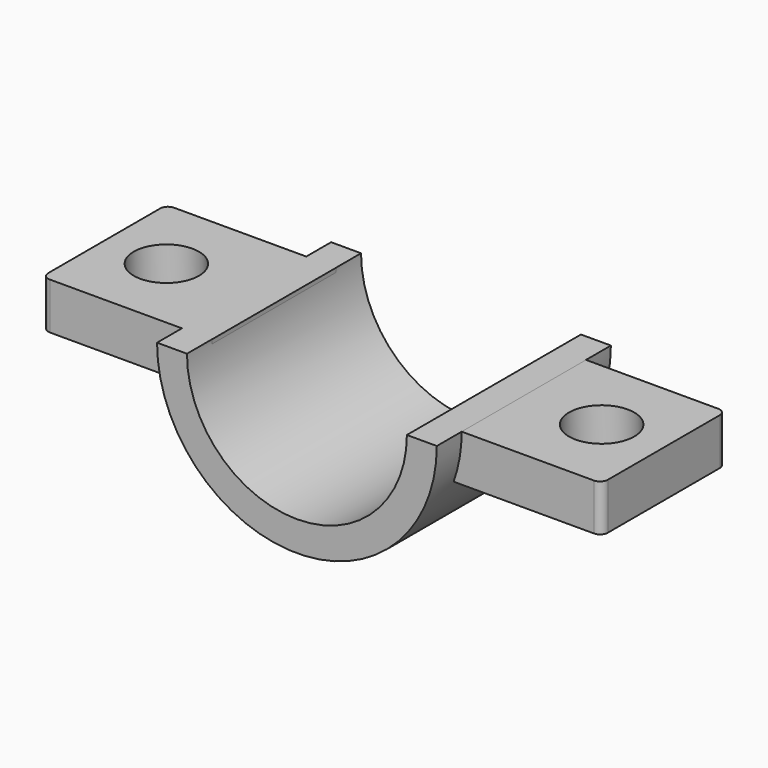
from build123d import *

# Parameters (mm, degrees)
PAD037_DEPTH      = 13
PAD037_DEPTH_BACK = 1
SKETCH058_W       = 1.93
SKETCH058_H       = 10
PAD038_DEPTH      = 3
SKETCH059_W       = 10
SKETCH059_H       = 3
PAD039_DEPTH      = 9
SKETCH060_W       = 10
SKETCH060_H       = 3
PAD040_DEPTH      = 9
SKETCH070_R       = 2.1
HOLE_DEPTH        = 3.001
FILLET014_R       = 0.5


with BuildPart() as part:
    # Sketch057 (on Face1 of CopyPad023) → Pad037 (new body, two sides)
    with BuildSketch(Plane(origin=(0, -35.363644, -2), x_dir=(1, 0, 0), z_dir=(0, -1, 0))) as pad037_sk:
        with BuildLine():
            ThreePointArc((-25.035308, -10.895555), (-17.960308, -17.970555), (-10.885308, -10.895554))
            Line((-10.885308, -10.895554), (-8.960308, -10.895554))
            ThreePointArc((-26.960308, -10.895555), (-17.960308, -19.895555), (-8.960308, -10.895554))
            Line((-26.960308, -10.895555), (-25.035308, -10.895555))
        make_face()
    extrude(amount=-PAD037_DEPTH)
    extrude(pad037_sk.sketch, amount=PAD037_DEPTH_BACK)

    # Sketch058 (on Face1 of Pad037) → Pad038 (join)
    with BuildSketch(Plane.XY.offset(-12.895555)):
        with Locations((-25.995308, -29.363644)):
            Rectangle(SKETCH058_W, SKETCH058_H)
        with Locations((-9.920308, -29.363644)):
            Rectangle(SKETCH058_W, SKETCH058_H)
    extrude(amount=-PAD038_DEPTH)

    # Sketch059 (on Face12 of Pad038) → Pad039 (join)
    with BuildSketch(Plane(origin=(-26.960308, 0, -2), x_dir=(0, -1, 0), z_dir=(-1, 0, 0))):
        with Locations((29.363644, -12.395555)):
            Rectangle(SKETCH059_W, SKETCH059_H)
    extrude(amount=PAD039_DEPTH)

    # Sketch060 (on Face13 of Pad039) → Pad040 (join)
    with BuildSketch(Plane(origin=(-8.955308, 0, -2), x_dir=(0, 1, 0), z_dir=(1, 0, 0))):
        with Locations((-29.363644, -12.395555)):
            Rectangle(SKETCH060_W, SKETCH060_H)
    extrude(amount=PAD040_DEPTH)

    # Sketch070 (on Face15 of Pad040) → Hole (cut, through all)
    with BuildSketch(Plane(origin=(0, 0, -15.895555), x_dir=(1, 0, 0), z_dir=(0, 0, -1))):
        with Locations((-31.960308, 29.363644)):
            Circle(SKETCH070_R)
        with Locations((-3.955308, 29.363644)):
            Circle(SKETCH070_R)
    extrude(amount=-HOLE_DEPTH, mode=Mode.SUBTRACT)

    # Fillet014
    fillet014_edges = [part.edges().sort_by_distance(p)[0] for p in [
        (-35.960308, -24.363644, -14.395555),
        (-35.960308, -34.363644, -14.395555),
        (0.044692, -24.363644, -14.395555),
        (0.044692, -34.363644, -14.395555),
    ]]
    fillet(fillet014_edges, radius=FILLET014_R)


with BuildPart() as part_1:
    # Body007 placement: moved
    add(part.part.moved(Location((0.3, 32.66415, 1.7))))


solid = part_1.part
